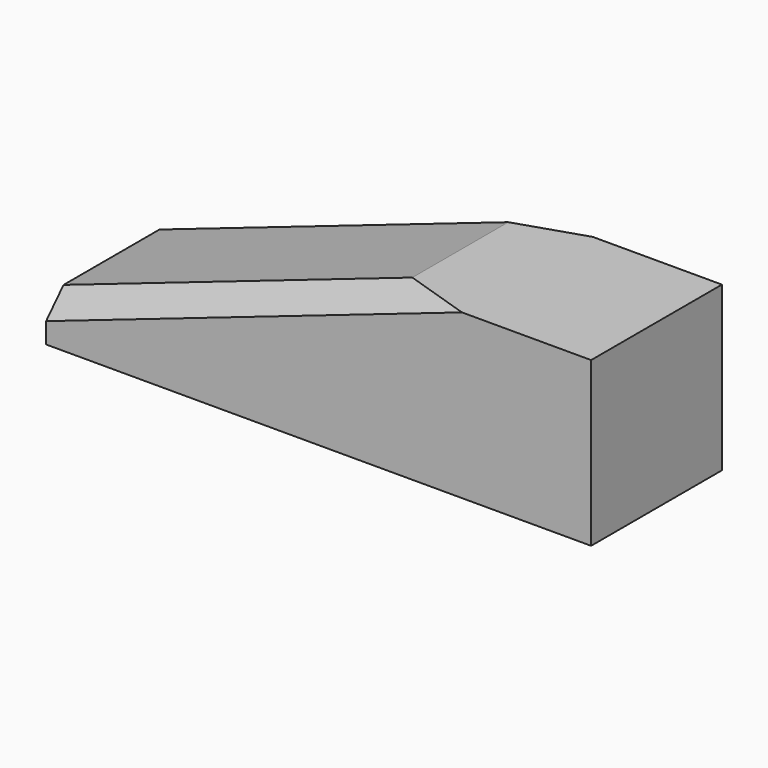
from build123d import *

# Parameters (mm, degrees)
SKETCH019_W     = 10
SKETCH019_H     = 3
PAD011_DEPTH    = 3
POCKET007_DEPTH = 5
CHAMFER004_SIZE = 0.4


with BuildPart() as part:
    # Sketch019 → Pad011 (new body)
    with BuildSketch(Plane.XY):
        with Locations((5, 0)):
            Rectangle(SKETCH019_W, SKETCH019_H)
    extrude(amount=PAD011_DEPTH)

    # Sketch020 (on Face1 of Pad011) → Pocket007 (cut)
    with BuildSketch(Plane(origin=(0, 1.5, 0), x_dir=(-1, 0, 0), z_dir=(0, 1, 0))):
        Polygon((0, 0.8), (-6.4, 3), (0, 3), align=None)
    extrude(amount=-POCKET007_DEPTH, mode=Mode.SUBTRACT)

    # Chamfer004
    chamfer004_edges = [part.edges().sort_by_distance(p)[0] for p in [
        (3.2, 1.5, 1.9),
        (3.2, -1.5, 1.9),
    ]]
    chamfer(chamfer004_edges, length=CHAMFER004_SIZE)


solid = part.part
